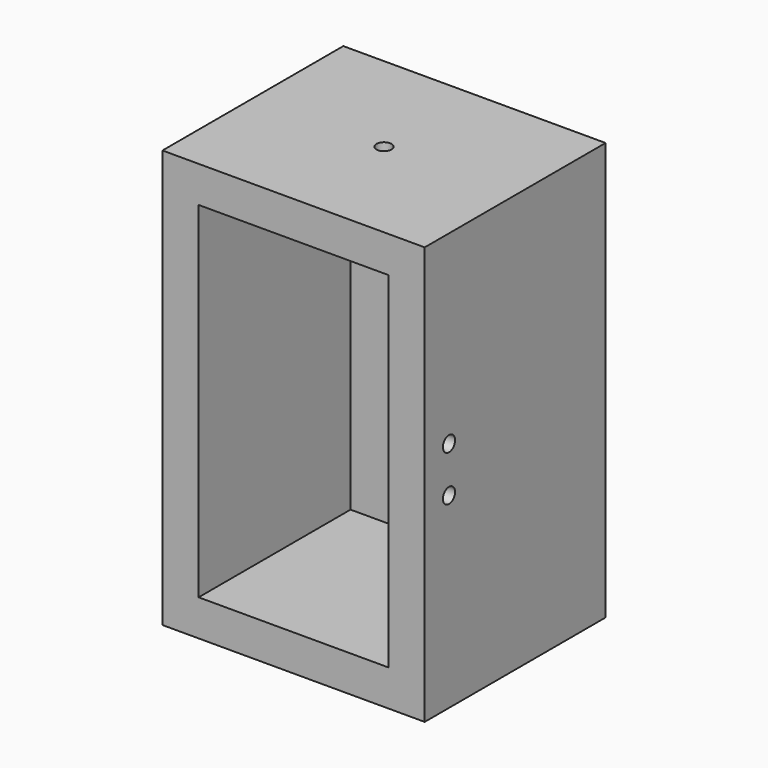
from build123d import *

# Parameters (mm, degrees)
F2_DEPTH      = 140
F2_DEPTH_BACK = 80
F3_W          = 100
F3_H          = 19.05
F4_DEPTH      = 100
F5_R          = 4
F6_DEPTH      = 19.05
F7_R          = 4
F8_DEPTH      = 20


with BuildPart() as f2:
    # F1 (on offset) → F2 (new body, two sides)
    with BuildSketch(Plane.XY.offset(-5.5)) as f2_sk:
        Polygon((-55.145783, -50), (-55.145783, 50), (44.854217, 50), (44.854217, -50), (63.904217, -50), (63.904217, 69.05), (-74.195783, 69.05), (-74.195783, -50), align=None)
    extrude(amount=F2_DEPTH)
    extrude(f2_sk.sketch, amount=-F2_DEPTH_BACK)

    # F3 (on face) → F4 (join)
    with BuildSketch(Plane.XZ.offset(-50)):
        with Locations((-5.145783, 124.975)):
            Rectangle(F3_W, F3_H)
        with Locations((-5.145783, -75.975)):
            Rectangle(F3_W, F3_H)
    extrude(amount=F4_DEPTH)

    # F5 (on face) → F6 (cut)
    with BuildSketch(Plane.XY.offset(134.5)):
        with Locations((-5.145783, 9.525)):
            Circle(F5_R)
    extrude(amount=-F6_DEPTH, mode=Mode.SUBTRACT)

    # F7 (on face) → F8 (cut)
    with BuildSketch(Plane.YZ.offset(63.904217)):
        with Locations((-34, 13)):
            Circle(F7_R)
        with Locations((-34, 37)):
            Circle(F7_R)
    extrude(amount=-F8_DEPTH, mode=Mode.SUBTRACT)


solid = f2.part
